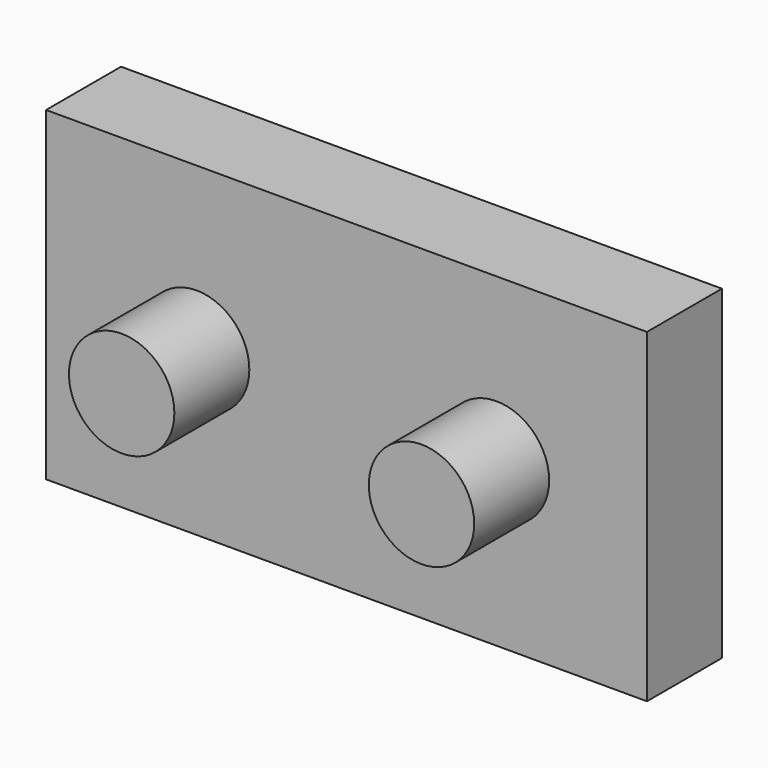
from build123d import *

# Parameters (mm, degrees)
F0_W     = 162.8978401423
F0_H     = 88.1588757038
F0_R     = 14.2875
F1_DEPTH = 25.4
F2_DEPTH = 50.8


with BuildPart() as f1:
    # F0 (on Front) → F1 (new body)
    with BuildSketch(Plane.XZ):
        Rectangle(F0_W, F0_H)
        with Locations((-40.64, 0)):
            Circle(F0_R, mode=Mode.SUBTRACT)
        with Locations((40.64, 0)):
            Circle(F0_R, mode=Mode.SUBTRACT)
        with Locations((-40.64, 0)):
            Circle(F0_R)
        with Locations((40.64, 0)):
            Circle(F0_R)
    extrude(amount=F1_DEPTH)


with BuildPart() as f2:
    # F0 (on Front) → F2 (new body)
    with BuildSketch(Plane.XZ):
        with Locations((-40.64, 0)):
            Circle(F0_R)
    extrude(amount=F2_DEPTH)


with BuildPart() as f2b:
    # F0 (on Front) → F2, piece 2 (new body)
    with BuildSketch(Plane.XZ):
        with Locations((40.64, 0)):
            Circle(F0_R)
    extrude(amount=F2_DEPTH)


solid = Compound([f1.part, f2.part, f2b.part])
